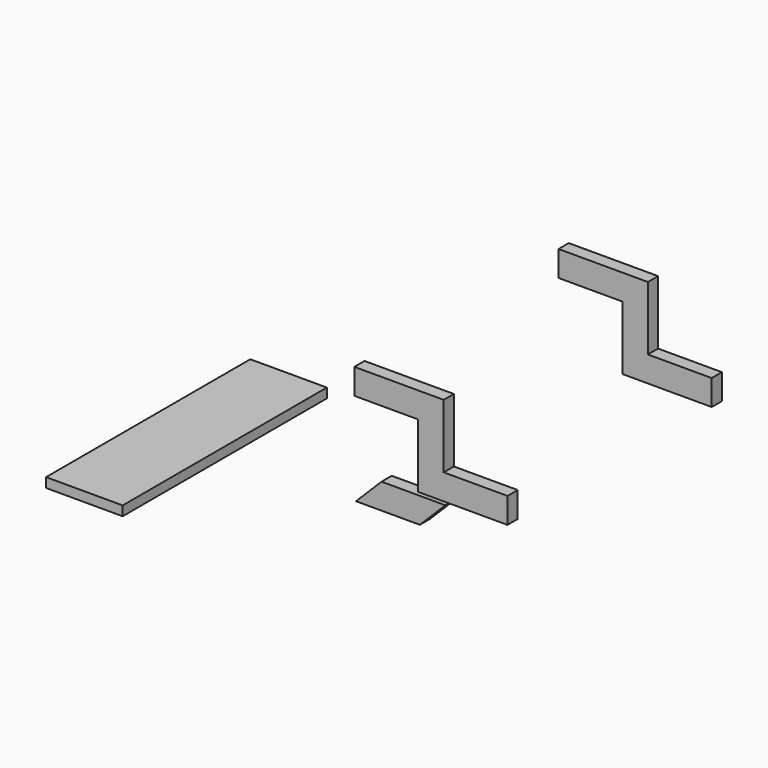
from build123d import *

# Parameters (mm, degrees)
F1_DEPTH = 40
F3_W     = 240
F3_H     = 30
F4_DEPTH = 800
F8_DEPTH = 40


with BuildPart() as f1:
    # F0 (on Front) → F1 (new body)
    with BuildSketch(Plane.XZ):
        Polygon((-80, 200), (-80, 0), (0, 80), (0, 280), align=None)
        Polygon((-280, 200), (-80, 200), (0, 280), (-80, 280), (-280, 280), align=None)
        Polygon((-80, 0), (0, 0), (200, 0), (200, 80), (0, 80), align=None)
    extrude(amount=F1_DEPTH)


with BuildPart() as f2_1:
    # F2: copy of F1
    add(f1.part.moved(Location((0, 800, 0))))


with BuildPart() as f4:
    # F3 (on face) → F4 (new body)
    with BuildSketch(Plane.XZ.offset(40)):
        with Locations((-486.0764741898, 179.938494625)):
            Rectangle(F3_W, F3_H)
    extrude(amount=F4_DEPTH)


with BuildPart() as f5_1:
    # F5: copy of F4
    add(f4.part)


with BuildPart() as f5_2:
    # F5: copy of F2_1
    add(f2_1.part)


with BuildPart() as f8:
    # F7 (on Front) → F8 (new body)
    with BuildSketch(Plane.XZ):
        Polygon((-194.7714817524, -9.0683435815), (-194.7714817524, -89.0683435815), (-74.7714817524, -89.0683435815), (5.2285182476, -9.0683435815), align=None)
        Polygon((-274.7714817524, -89.0683435815), (-194.7714817524, -89.0683435815), (-194.7714817524, -9.0683435815), align=None)
    extrude(amount=F8_DEPTH)


solid = Compound([f1.part, f2_1.part, f4.part, f8.part])
